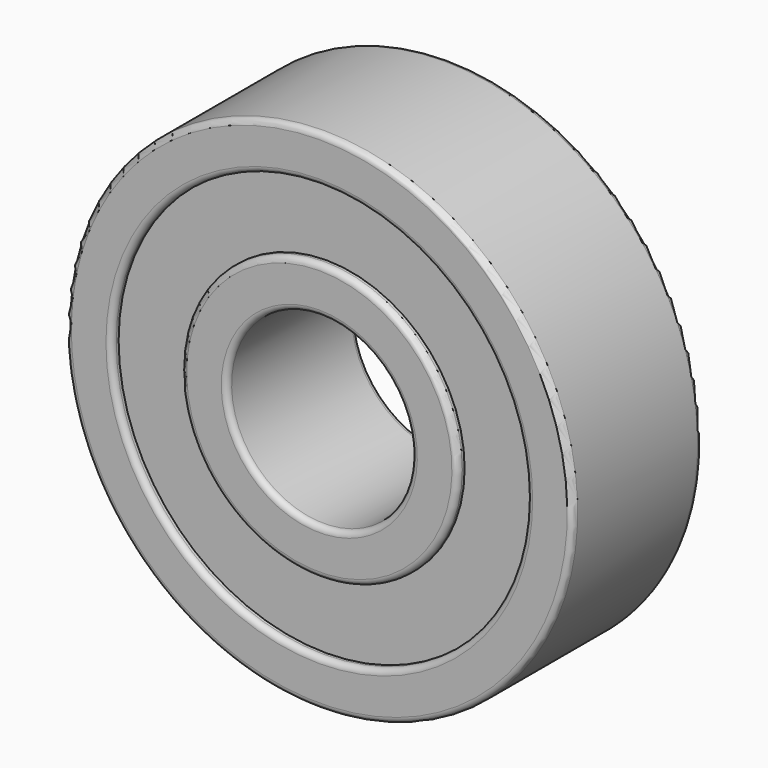
from build123d import *

# Parameters (mm, degrees)
F4_R = 0.25


with BuildPart() as f3:
    # F2 (on Right) → F3 (revolve)
    with BuildSketch(Plane.YZ):
        Polygon((3.125, 9), (3.5, 9), (3.5, 11), (-3.5, 11), (-3.5, 9), (-3.125, 9), (-3.125, 6), (-3.5, 6), (-3.5, 4), (3.5, 4), (3.5, 6), (3.125, 6), align=None)
    revolve(axis=Axis((0, 0, 0), (0, -1, 0)))

    # F4
    f4_edges = [f3.edges().sort_by_distance(p)[0] for p in [
        (0, -3.5, -11),
        (0, -3.5, -9),
        (0, -3.5, -6),
        (0, -3.5, -4),
        (0, 3.5, -4),
        (0, 3.5, -6),
        (0, 3.5, -9),
        (0, 3.5, -11),
    ]]
    fillet(f4_edges, radius=F4_R)


solid = f3.part
